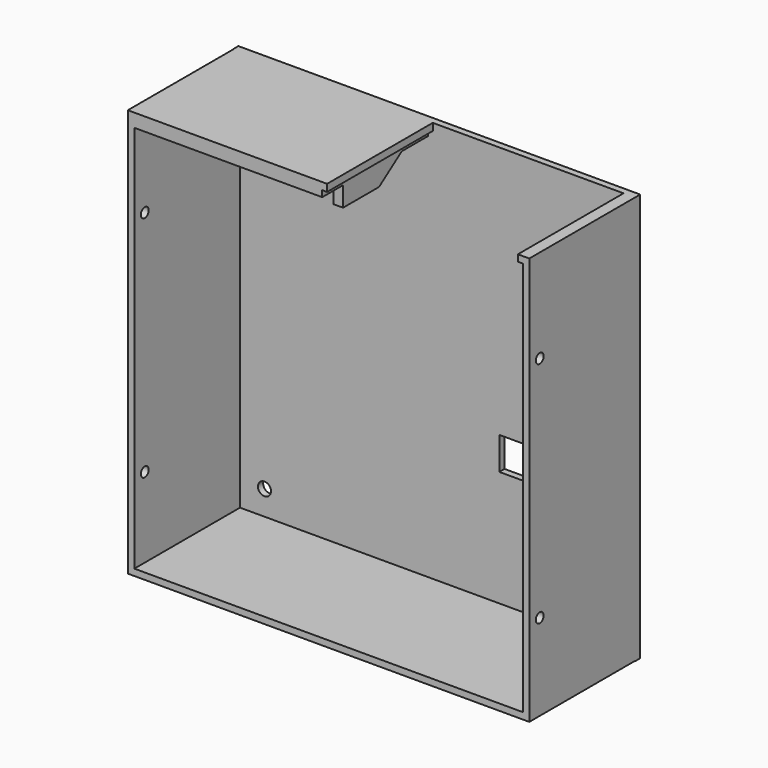
from build123d import *

# Parameters (mm, degrees)
SKETCH004_W     = 123.2
SKETCH004_H     = 125.2
SKETCH004_R     = 2
PAD002_DEPTH    = 2
PAD003_DEPTH    = 40.5
SKETCH014_W     = 119
SKETCH014_H     = 119
POCKET002_DEPTH = 8.001
SKETCH015_R     = 1.5
POCKET003_DEPTH = 123.201
SKETCH036_W     = 10
SKETCH036_H     = 10
POCKET014_DEPTH = 5
POCKET015_DEPTH = 5


with BuildPart() as part:
    # Sketch004 → Pad002 (new body)
    with BuildSketch(Plane.XZ):
        with Locations((0, 1)):
            Rectangle(SKETCH004_W, SKETCH004_H)
        with Locations((-52, 52)):
            Circle(SKETCH004_R, mode=Mode.SUBTRACT)
        with Locations((-52, -52)):
            Circle(SKETCH004_R, mode=Mode.SUBTRACT)
        with Locations((52, -52)):
            Circle(SKETCH004_R, mode=Mode.SUBTRACT)
    extrude(amount=-PAD002_DEPTH)

    # Sketch005 (on Face8 of Pad002) → Pad003 (join)
    with BuildSketch(Plane.XZ):
        Polygon((-61.5, 63.6), (-0.4, 63.6), (-0.4, 61.4), (-1.9, 61.4), (-1.9, 53.4), (-4.9, 53.4), (-4.9, 59.5), (-59.5, 59.5), (-59.5, -59.5), (59.6, -59.5), (59.6, 61.6), (58.1, 61.6), (58.1, 63.6), (61.6, 63.6), (61.6, -61.5), (-61.5, -61.5), align=None)
    extrude(amount=PAD003_DEPTH)

    # Sketch014 → Pocket002 (cut, through all)
    with BuildSketch(Plane.XZ.offset(32.5)):
        Rectangle(SKETCH014_W, SKETCH014_H)
    extrude(amount=POCKET002_DEPTH, mode=Mode.SUBTRACT)

    # Sketch015 (on Face15 of Pocket002) → Pocket003 (cut, through all)
    with BuildSketch(Plane(origin=(61.6, 0, 0), x_dir=(0, 0, 1), z_dir=(1, 0, 0))):
        with Locations((-35, 36.5)):
            Circle(SKETCH015_R)
        with Locations((35, 36.5)):
            Circle(SKETCH015_R)
    extrude(amount=-POCKET003_DEPTH, mode=Mode.SUBTRACT)

    # Sketch036 → Pocket014 (cut)
    with BuildSketch(Plane(origin=(0, 2, 0), x_dir=(1, 0, 0), z_dir=(0, 1, 0))):
        with Locations((25, 19)):
            Rectangle(SKETCH036_W, SKETCH036_H)
    extrude(amount=-POCKET014_DEPTH, mode=Mode.SUBTRACT)

    # Sketch040 (on Face24 of Pocket014) → Pocket015 (cut)
    with BuildSketch(Plane(origin=(-1.9, 0, 0), x_dir=(0, 0, 1), z_dir=(1, 0, 0))):
        Polygon((59.5, 0), (53.4, 0), (51.5, 21.425184), (59.5, 10), align=None)
    extrude(amount=-POCKET015_DEPTH, mode=Mode.SUBTRACT)


solid = part.part
